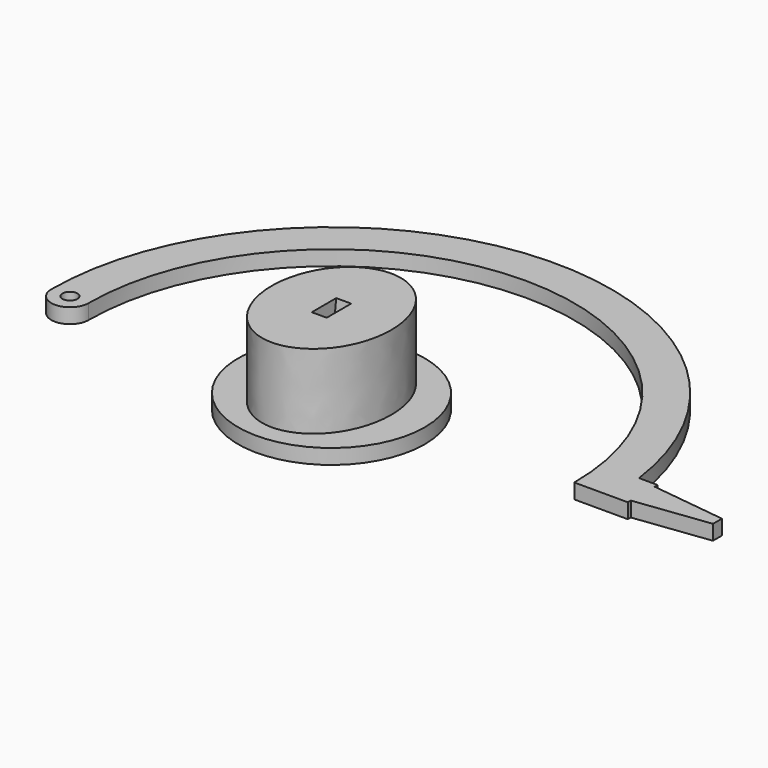
from build123d import *

# Parameters (mm, degrees)
PAD_DEPTH            = 4
SKETCH001_R          = 2
POCKET_DEPTH         = 4.001
SKETCH002_R          = 25
PAD001_DEPTH         = 4
PAD002_DEPTH         = 20
POCKET001_DEPTH      = 2
POCKET001_DEPTH_BACK = -2


with BuildPart() as body:
    # Sketch → Pad (new body)
    with BuildSketch(Plane.XY):
        with BuildLine():
            ThreePointArc((74.330344, 10), (-5.011198, 74.832399), (-75, 0))
            ThreePointArc((-75, 0), (-70, -5), (-65, 0))
            ThreePointArc((65, 0), (0, 65), (-65, 0))
            Line((79.330344, 0), (65, 0))
            Line((79.330344, 0), (79.330344, 1))
            Line((79.330344, 1), (99.330344, 3.5))
            Line((99.330344, 6.5), (99.330344, 3.5))
            Line((79.330344, 9), (99.330344, 6.5))
            Line((79.330344, 9), (79.330344, 10))
            Line((74.330344, 10), (79.330344, 10))
        make_face()
    extrude(amount=PAD_DEPTH)

    # Sketch001 (on Face12 of Pad) → Pocket (cut, through all)
    with BuildSketch(Plane.XY.offset(4)):
        with Locations((-70, 0)):
            Circle(SKETCH001_R)
    extrude(amount=-POCKET_DEPTH, mode=Mode.SUBTRACT)


with BuildPart() as base:
    # Sketch002 → Pad001 (new body)
    with BuildSketch(Plane.XY):
        Circle(SKETCH002_R)
    extrude(amount=PAD001_DEPTH)

    # Sketch003 (on Face3 of Pad001) → Pad002 (join)
    with BuildSketch(Plane.XY.offset(4)):
        with BuildLine():
            add(Edge.make_bspline(
                [(0, -20), (27.712813, -20), (13.856406, 10), (0, 40), (-13.856406, 10), (-27.712813, -20), (0, -20)],
                knots=[0, 0, 0, 2.094395, 2.094395, 4.18879, 4.18879, 6.283185, 6.283185, 6.283185], degree=2, weights=[1, 0.5, 1, 0.5, 1, 0.5, 1]))
        make_face()
    extrude(amount=PAD002_DEPTH)

    # Sketch004 → Pocket001 (cut, two sides)
    with BuildSketch(Plane.YZ) as pocket001_sk:
        Polygon((-4.125, 24.25), (4.125, 24.25), (1.625, 4), (-1.625, 4), align=None)
    extrude(amount=-POCKET001_DEPTH, mode=Mode.SUBTRACT)
    extrude(pocket001_sk.sketch, amount=-POCKET001_DEPTH_BACK, mode=Mode.SUBTRACT)


solid = Compound([body.part, base.part])
